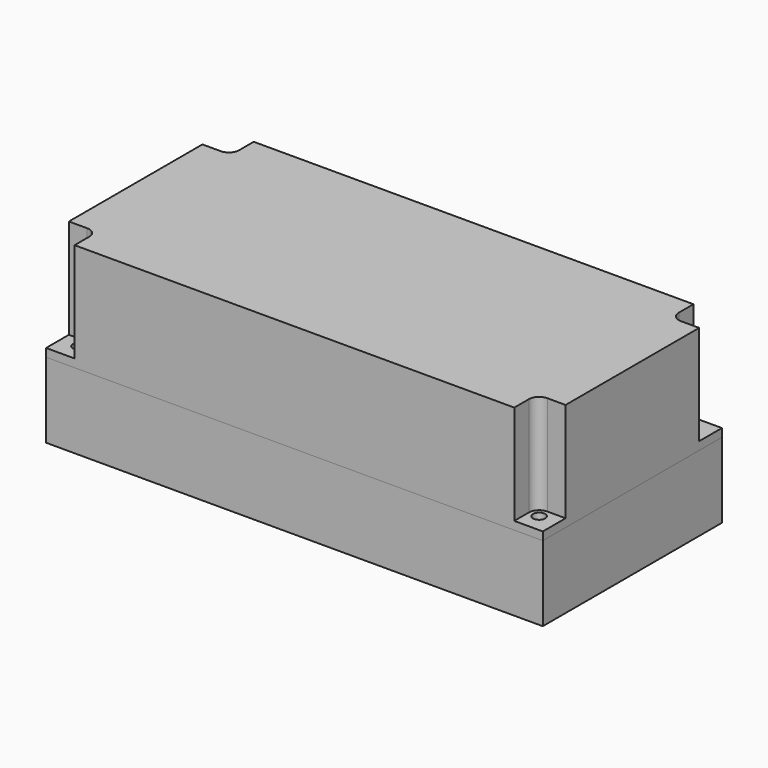
from build123d import *

# Parameters (mm, degrees)
SKETCH_W          = 122
SKETCH_H          = 55
PAD_DEPTH         = 1.5
SKETCH001_W       = 122
SKETCH001_H       = 55
SKETCH001_W_2     = 119
SKETCH001_H_2     = 52
PAD001_DEPTH      = 17
SKETCH002_W       = 15
SKETCH002_H       = 11
SKETCH002_R       = 1
PAD002_DEPTH      = 10
SKETCH003_R       = 1.25
PAD003_DEPTH      = 15
SKETCH004_W       = 117
SKETCH004_H       = 50
PAD004_DEPTH      = 2
PAD005_DEPTH      = 25
PAD006_DEPTH      = 2
SKETCH007_R       = 1.5
POCKET_DEPTH      = 2.001
POCKET_DEPTH_BACK = 25.001
PAD007_DEPTH      = 1.5
POCKET001_DEPTH   = 61.001
POCKET002_DEPTH   = 27.501


with BuildPart() as body:
    # Sketch → Pad (new body)
    with BuildSketch(Plane.XY):
        Rectangle(SKETCH_W, SKETCH_H)
    extrude(amount=-PAD_DEPTH)

    # Sketch001 → Pad001 (join)
    with BuildSketch(Plane.XY):
        Rectangle(SKETCH001_W, SKETCH001_H)
        Rectangle(SKETCH001_W_2, SKETCH001_H_2, mode=Mode.SUBTRACT)
    extrude(amount=PAD001_DEPTH)

    # Sketch002 → Pad002 (join)
    with BuildSketch(Plane.XY):
        with Locations((-52, -20.5)):
            Rectangle(SKETCH002_W, SKETCH002_H)
        with Locations((-47.5, -17.75)):
            Circle(SKETCH002_R, mode=Mode.SUBTRACT)
        with Locations((-52, 20.5)):
            Rectangle(SKETCH002_W, SKETCH002_H)
        with Locations((-47.5, 17.75)):
            Circle(SKETCH002_R, mode=Mode.SUBTRACT)
        with Locations((52, 20.5)):
            Rectangle(SKETCH002_W, SKETCH002_H)
        with Locations((47.5, 17.75)):
            Circle(SKETCH002_R, mode=Mode.SUBTRACT)
        with Locations((52, -20.5)):
            Rectangle(SKETCH002_W, SKETCH002_H)
        with Locations((47.5, -17.75)):
            Circle(SKETCH002_R, mode=Mode.SUBTRACT)
    extrude(amount=PAD002_DEPTH)

    # Sketch003 → Pad003 (join)
    with BuildSketch(Plane.XY):
        with BuildLine():
            Line((-59.5, -26), (-53.5, -26))
            Line((-53.5, -23), (-53.5, -26))
            ThreePointArc((-53.5, -23), (-56.5, -20), (-59.5, -23))
            Line((-59.5, -23), (-59.5, -26))
        make_face()
        with Locations((-56.5, -23)):
            Circle(SKETCH003_R, mode=Mode.SUBTRACT)
        with BuildLine():
            Line((-59.5, 26), (-53.5, 26))
            Line((-53.5, 26), (-53.5, 23))
            ThreePointArc((-59.5, 23), (-56.5, 20), (-53.5, 23))
            Line((-59.5, 23), (-59.5, 26))
        make_face()
        with Locations((-56.5, 23)):
            Circle(SKETCH003_R, mode=Mode.SUBTRACT)
        with BuildLine():
            Line((59.5, 26), (53.5, 26))
            Line((53.5, 26), (53.5, 23))
            ThreePointArc((53.5, 23), (56.5, 20), (59.5, 23))
            Line((59.5, 23), (59.5, 26))
        make_face()
        with Locations((56.5, 23)):
            Circle(SKETCH003_R, mode=Mode.SUBTRACT)
        with BuildLine():
            Line((59.5, -26), (53.5, -26))
            Line((53.5, -26), (53.5, -23))
            ThreePointArc((59.5, -23), (56.5, -20), (53.5, -23))
            Line((59.5, -23), (59.5, -26))
        make_face()
        with Locations((56.5, -23)):
            Circle(SKETCH003_R, mode=Mode.SUBTRACT)
    extrude(amount=PAD003_DEPTH)


with BuildPart() as body001:
    # Sketch004 (on DatumPlane) → Pad004 (new body)
    with BuildSketch(Plane.XY.offset(17)):
        Rectangle(SKETCH004_W, SKETCH004_H)
        with BuildLine():
            ThreePointArc((-57.5, 20.171573), (-54.37868, 20.87868), (-53.671573, 24))
            Line((-53.671573, 24), (53.671573, 24))
            ThreePointArc((53.671573, 24), (54.37868, 20.87868), (57.5, 20.171573))
            Line((57.5, 20.171573), (57.5, -20.171573))
            ThreePointArc((57.5, -20.171573), (54.37868, -20.87868), (53.671573, -24))
            Line((53.671573, -24), (-53.671573, -24))
            ThreePointArc((-53.671573, -24), (-54.37868, -20.87868), (-57.5, -20.171573))
            Line((-57.5, -20.171573), (-57.5, 20.171573))
        make_face(mode=Mode.SUBTRACT)
    extrude(amount=-PAD004_DEPTH)

    # Sketch008 (on DatumPlane) → Pad005 (join)
    with BuildSketch(Plane.XY.offset(17)):
        with BuildLine():
            Line((-61, -20.5), (-61, 20.5))
            Line((-56.5, 20.5), (-61, 20.5))
            ThreePointArc((-56.5, 20.5), (-54.732233, 21.232233), (-54, 23))
            Line((-54, 23), (-54, 27.5))
            Line((-54, 27.5), (54, 27.5))
            Line((54, 23), (54, 27.5))
            ThreePointArc((54, 23), (54.732233, 21.232233), (56.5, 20.5))
            Line((56.5, 20.5), (61, 20.5))
            Line((61, 20.5), (61, -20.5))
            Line((56.5, -20.5), (61, -20.5))
            ThreePointArc((56.5, -20.5), (54.732233, -21.232233), (54, -23))
            Line((54, -23), (54, -27.5))
            Line((54, -27.5), (-54, -27.5))
            Line((-54, -23), (-54, -27.5))
            ThreePointArc((-54, -23), (-54.732233, -21.232233), (-56.5, -20.5))
            Line((-56.5, -20.5), (-61, -20.5))
        make_face()
        with BuildLine():
            ThreePointArc((-56.5, 20), (-54.37868, 20.87868), (-53.5, 23))
            Line((-53.5, 23), (-53.5, 24))
            Line((-53.5, 24), (53.5, 24))
            Line((53.5, 23), (53.5, 24))
            ThreePointArc((53.5, 23), (54.37868, 20.87868), (56.5, 20))
            Line((56.5, 20), (57.5, 20))
            Line((57.5, 20), (57.5, -20))
            Line((56.5, -20), (57.5, -20))
            ThreePointArc((56.5, -20), (54.37868, -20.87868), (53.5, -23))
            Line((53.5, -23), (53.5, -24))
            Line((53.5, -24), (-53.5, -24))
            Line((-53.5, -23), (-53.5, -24))
            ThreePointArc((-53.5, -23), (-54.37868, -20.87868), (-56.5, -20))
            Line((-56.5, -20), (-57.5, -20))
            Line((-57.5, -20), (-57.5, 20))
            Line((-56.5, 20), (-57.5, 20))
        make_face(mode=Mode.SUBTRACT)
    extrude(amount=PAD005_DEPTH)

    # Sketch009 (on DatumPlane) → Pad006 (join)
    with BuildSketch(Plane.XY.offset(17)):
        with BuildLine():
            ThreePointArc((-54, -23), (-54.732233, -21.232233), (-56.5, -20.5))
            Line((-56.5, -20.5), (-61, -20.5))
            Line((-61, -20.5), (-61, -27.5))
            Line((-61, -27.5), (-54, -27.5))
            Line((-54, -23), (-54, -27.5))
        make_face()
        with BuildLine():
            ThreePointArc((54, 23), (54.732233, 21.232233), (56.5, 20.5))
            Line((56.5, 20.5), (61, 20.5))
            Line((61, 20.5), (61, 27.5))
            Line((54, 27.5), (61, 27.5))
            Line((54, 23), (54, 27.5))
        make_face()
        with BuildLine():
            ThreePointArc((-56.5, 20.5), (-54.732233, 21.232233), (-54, 23))
            Line((-54, 23), (-54, 27.5))
            Line((-54, 27.5), (-61, 27.5))
            Line((-61, 20.5), (-61, 27.5))
            Line((-56.5, 20.5), (-61, 20.5))
        make_face()
        with BuildLine():
            Line((54, -23), (54, -27.5))
            Line((54, -27.5), (61, -27.5))
            Line((61, -27.5), (61, -20.5))
            Line((56.5, -20.5), (61, -20.5))
            ThreePointArc((56.5, -20.5), (54.732233, -21.232233), (54, -23))
        make_face()
    extrude(amount=PAD006_DEPTH)

    # Sketch007 (on DatumPlane) → Pocket (cut, two sides)
    with BuildSketch(Plane.XY.offset(17)) as pocket_sk:
        with Locations((-56.5, 23)):
            Circle(SKETCH007_R)
        with Locations((-56.5, -23)):
            Circle(SKETCH007_R)
        with Locations((56.5, -23)):
            Circle(SKETCH007_R)
        with Locations((56.5, 23)):
            Circle(SKETCH007_R)
    extrude(amount=-POCKET_DEPTH, mode=Mode.SUBTRACT)
    extrude(pocket_sk.sketch, amount=POCKET_DEPTH_BACK, mode=Mode.SUBTRACT)

    # Sketch010 (on DatumPlane) → Pad007 (join)
    with BuildSketch(Plane.XY.offset(42)):
        with BuildLine():
            Line((-61, -20.5), (-61, 20.5))
            Line((-56.5, 20.5), (-61, 20.5))
            ThreePointArc((-56.5, 20.5), (-54.732233, 21.232233), (-54, 23))
            Line((-54, 23), (-54, 27.5))
            Line((-54, 27.5), (54, 27.5))
            Line((54, 23), (54, 27.5))
            ThreePointArc((54, 23), (54.732233, 21.232233), (56.5, 20.5))
            Line((56.5, 20.5), (61, 20.5))
            Line((61, 20.5), (61, -20.5))
            Line((56.5, -20.5), (61, -20.5))
            ThreePointArc((56.5, -20.5), (54.732233, -21.232233), (54, -23))
            Line((54, -23), (54, -27.5))
            Line((54, -27.5), (-54, -27.5))
            Line((-54, -23), (-54, -27.5))
            ThreePointArc((-54, -23), (-54.732233, -21.232233), (-56.5, -20.5))
            Line((-56.5, -20.5), (-61, -20.5))
        make_face()
    extrude(amount=PAD007_DEPTH)

    # Sketch011 → Pocket001 (cut, through all)
    with BuildSketch(Plane.YZ):
        with BuildLine():
            Line((-10, 27.5), (-10, 15))
            Line((-10, 15), (10, 15))
            Line((10, 15), (10, 27.5))
            ThreePointArc((10, 27.5), (9.267767, 29.267767), (7.5, 30))
            Line((7.5, 30), (-7.5, 30))
            ThreePointArc((-7.5, 30), (-9.267767, 29.267767), (-10, 27.5))
        make_face()
    extrude(amount=-POCKET001_DEPTH, mode=Mode.SUBTRACT)

    # Sketch012 → Pocket002 (cut, through all)
    with BuildSketch(Plane.XZ):
        with BuildLine():
            Line((10, 27.5), (10, 15))
            Line((10, 15), (40, 15))
            Line((40, 15), (40, 27.5))
            ThreePointArc((40, 27.5), (39.267767, 29.267767), (37.5, 30))
            Line((37.5, 30), (12.5, 30))
            ThreePointArc((12.5, 30), (10.732233, 29.267767), (10, 27.5))
        make_face()
        with BuildLine():
            Line((-15, 15), (-10, 15))
            Line((-10, 15), (-10, 18.5))
            ThreePointArc((-10, 18.5), (-10.43934, 19.56066), (-11.5, 20))
            Line((-11.5, 20), (-13.5, 20))
            ThreePointArc((-13.5, 20), (-14.56066, 19.56066), (-15, 18.5))
            Line((-15, 18.5), (-15, 15))
        make_face()
    extrude(amount=-POCKET002_DEPTH, mode=Mode.SUBTRACT)


solid = Compound([body.part, body001.part])
